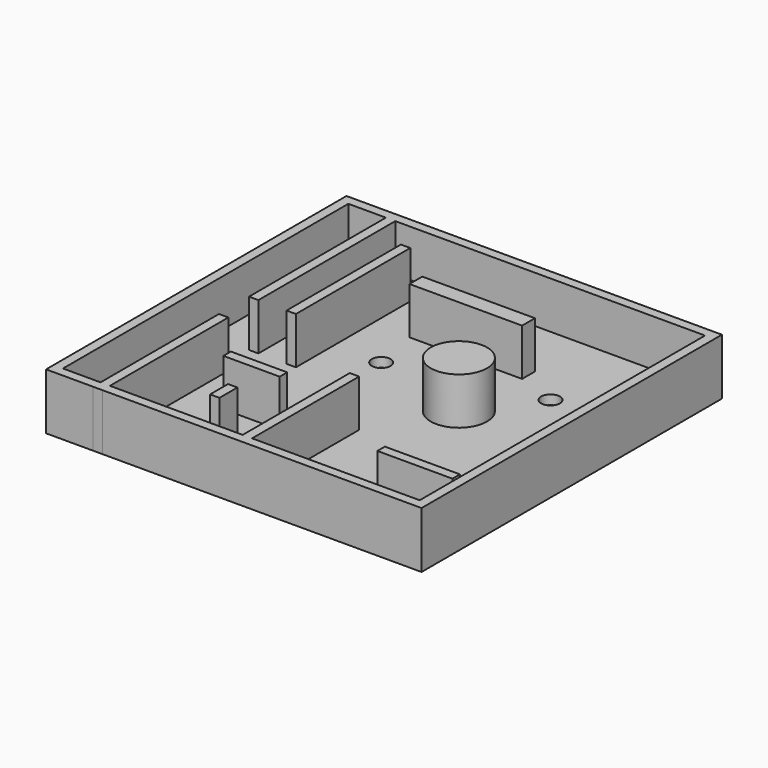
from build123d import *

# Parameters (mm, degrees)
F0_W      = 50.8
F0_H      = 50.8
F1_DEPTH  = 7.62
F2_T      = -1.27
F3_W      = 1.27
F3_H      = 21.299569
F3_H_2    = 24.274384
F3_H_3    = 19.340431
F4_DEPTH  = 7.62
F5_W      = 10.16
F5_H      = 1.27
F5_W_2    = 15.24
F5_H_2    = 2.170816
F5_W_3    = 7.62
F5_R      = 3.81
F5_W_4    = 1.27
F5_H_3    = 19.382268
F6_DEPTH  = 7.62
F7_R      = 0.635
F8_DEPTH  = 25.4
F9_R      = 1.27
F10_DEPTH = 25.4
F11_R     = 1.27
F12_DEPTH = 25.4
F13_R     = 1.27
F14_DEPTH = 25.4
F15_DEPTH = 25.4
F16_W     = 1.27
F16_H     = 3.036126
F17_DEPTH = 7.62


with BuildPart() as f1:
    # F0 (on Top) → F1 (new body)
    with BuildSketch(Plane.XY):
        with Locations((25.4, 25.4)):
            Rectangle(F0_W, F0_H)
    extrude(amount=F1_DEPTH)

    # F2
    f2_openings = [f1.faces().sort_by_distance(p)[0] for p in [
        (25.4, 25.4, 7.62),
    ]]
    offset(amount=F2_T, openings=f2_openings)

    # F3 (on Top) → F4 (join)
    with BuildSketch(Plane.XY):
        with Locations((6.985, 10.649784)):
            Rectangle(F3_W, F3_H)
        with Locations((6.985, 38.516761)):
            Rectangle(F3_W, F3_H_2)
        with Locations((12.065, 36.049785)):
            Rectangle(F3_W, F3_H_3)
    extrude(amount=F4_DEPTH)

    # F5 (on Top) → F6 (join)
    with BuildSketch(Plane.XY):
        with Locations((44.073429, 7.922732)):
            Rectangle(F5_W, F5_H)
        with Locations((25.4, 40.315118)):
            Rectangle(F5_W_2, F5_H_2)
        with Locations((16.51, 14.74529)):
            Rectangle(F5_W_3, F5_H)
        with Locations((32.407153, 29.305989)):
            Circle(F5_R)
        with Locations((26.219592, 9.691134)):
            Rectangle(F5_W_4, F5_H_3)
    extrude(amount=F6_DEPTH)

    # F7 (on Top) → F8 (cut)
    with BuildSketch(Plane.XY):
        with Locations((3.863793, 5.102679)):
            Circle(F7_R)
    extrude(amount=-F8_DEPTH, mode=Mode.SUBTRACT)

    # F9 (on face) → F10 (cut)
    with BuildSketch(Plane.XY.offset(1.27)):
        with Locations((43.868799, 15.38029)):
            Circle(F9_R)
    extrude(amount=-F10_DEPTH, mode=Mode.SUBTRACT)

    # F11 (on face) → F12 (cut)
    with BuildSketch(Plane.XY.offset(1.27)):
        with Locations((38.372144, 37.351608)):
            Circle(F11_R)
    extrude(amount=-F12_DEPTH, mode=Mode.SUBTRACT)

    # F13 (on face) → F14 (cut)
    with BuildSketch(Plane.XY.offset(1.27)):
        with Locations((19.05, 32.861251)):
            Circle(F13_R)
        with Locations((4.185437, 47.093425)):
            Circle(F13_R)
        with Locations((4.185437, 6.017732)):
            Circle(F13_R)
    extrude(amount=-F14_DEPTH, mode=Mode.SUBTRACT)

    # F13 (on face) → F15 (cut)
    with BuildSketch(Plane.XY.offset(1.27)):
        with Locations((19.05, 32.861251)):
            Circle(F13_R)
        with Locations((4.185437, 47.093425)):
            Circle(F13_R)
        with Locations((4.185437, 6.017732)):
            Circle(F13_R)
    extrude(amount=-F15_DEPTH, mode=Mode.SUBTRACT)

    # F16 (on Top) → F17 (join)
    with BuildSketch(Plane.XY):
        with Locations((17.742798, 7.868063)):
            Rectangle(F16_W, F16_H)
    extrude(amount=F17_DEPTH)


solid = f1.part
